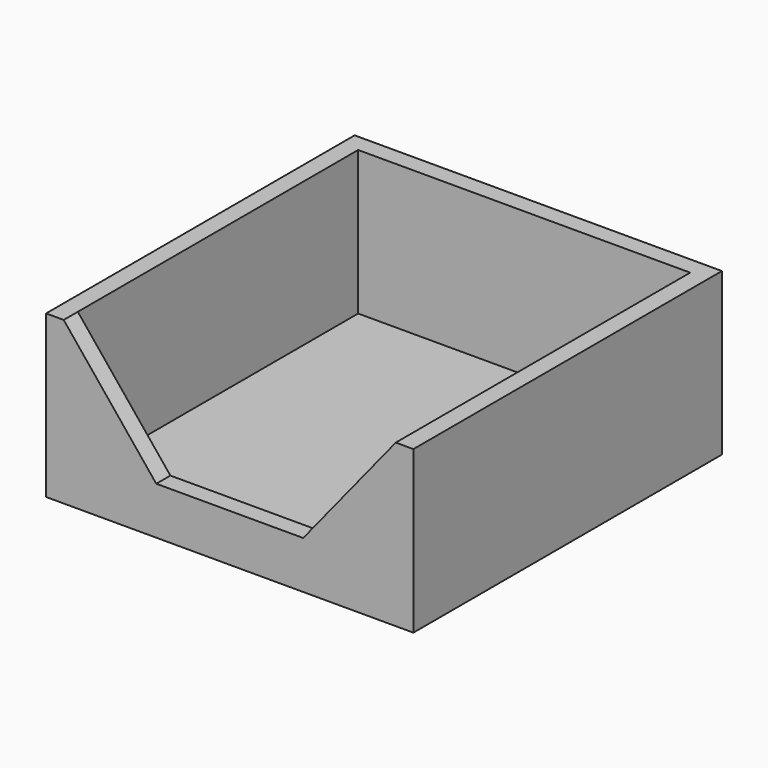
from build123d import *

# Parameters (mm, degrees)
F0_W     = 63.5
F0_H     = 27.94
F1_DEPTH = 66.675
F2_T     = -3.048
F4_DEPTH = 25.4


with BuildPart() as f1:
    # F0 (on Front) → F1 (new body)
    with BuildSketch(Plane.XZ):
        Rectangle(F0_W, F0_H)
    extrude(amount=F1_DEPTH)

    # F2
    f2_openings = [f1.faces().sort_by_distance(p)[0] for p in [
        (0, -33.3375, 13.97),
    ]]
    offset(amount=F2_T, openings=f2_openings)

    # F3 (on face) → F4 (cut)
    with BuildSketch(Plane(origin=(0, -63.627, 0), x_dir=(-1, 0, 0), z_dir=(0, 1, 0))):
        Polygon((12.7, -5.7555163684), (28.702, 13.97), (-28.702, 13.97), (-12.7, -5.7555163684), (0, -5.7555163684), align=None)
    extrude(amount=-F4_DEPTH, mode=Mode.SUBTRACT)


solid = f1.part
